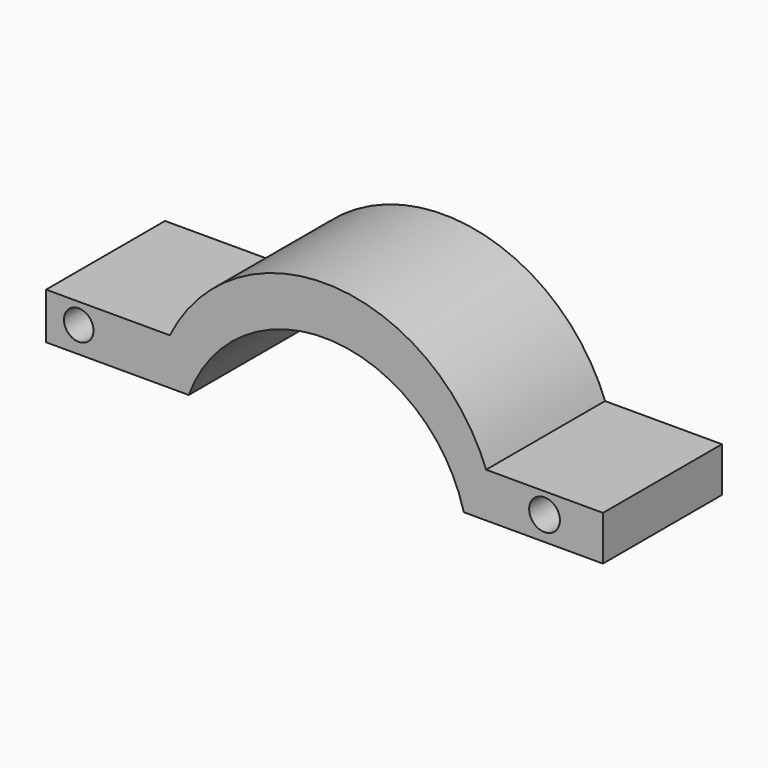
from build123d import *

# Parameters (mm, degrees)
F0_R     = 2.52577
F0_R_2   = 2.626167
F1_DEPTH = 25.4


with BuildPart() as f1:
    # F0 (on Front) → F1 (new body)
    with BuildSketch(Plane.XZ):
        with BuildLine():
            Line((-27.746588, -27.012551), (-48.886843, -27.012551))
            Line((-48.886843, -27.012551), (-48.886843, -34.940146))
            Line((-48.886843, -34.940146), (-24.516826, -34.940146))
            ThreePointArc((-24.516826, -34.940146), (-0.162975, -18.82107), (22.461522, -37.289064))
            Line((22.461522, -37.289064), (46.244312, -37.289064))
            Line((46.244312, -37.289064), (46.244312, -29.655084))
            Line((46.244312, -29.655084), (26.278513, -29.655084))
            ThreePointArc((26.278513, -29.655084), (0.133739, -10.592604), (-27.746588, -27.012551))
        make_face()
        with Locations((-43.308165, -30.535927)):
            Circle(F0_R, mode=Mode.SUBTRACT)
        with Locations((36.261413, -33.17846)):
            Circle(F0_R_2, mode=Mode.SUBTRACT)
    extrude(amount=F1_DEPTH)


solid = f1.part
